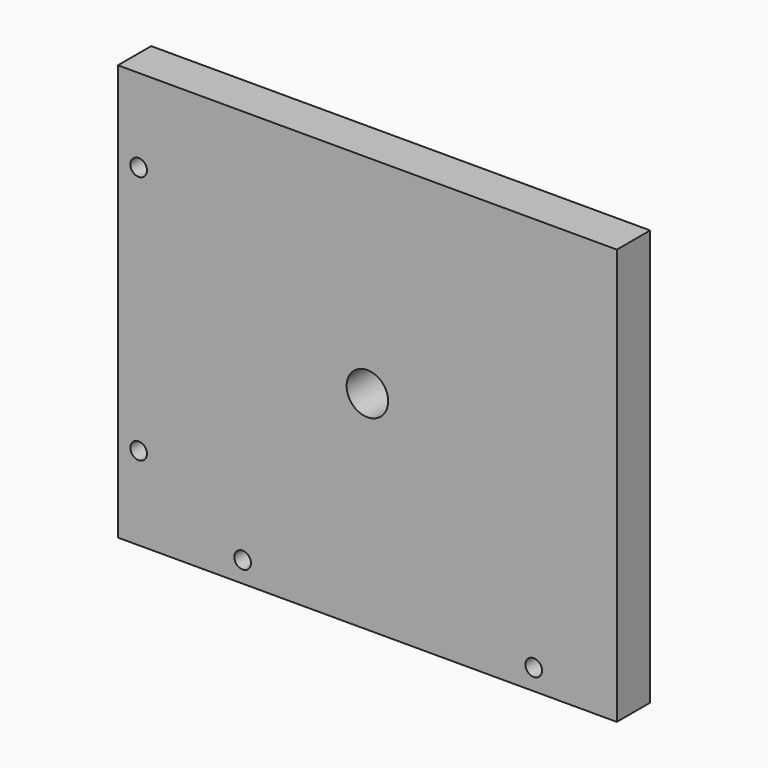
from build123d import *

# Parameters (mm, degrees)
F0_W     = 120
F0_H     = 100
F0_R     = 2
F0_R_2   = 5
F1_DEPTH = 10


with BuildPart() as f1:
    # F0 (on Front) → F1 (new body)
    with BuildSketch(Plane.XZ):
        Rectangle(F0_W, F0_H)
        with Locations((-55, -30)):
            Circle(F0_R, mode=Mode.SUBTRACT)
        with Locations((-30, -45)):
            Circle(F0_R, mode=Mode.SUBTRACT)
        with Locations((40, -45)):
            Circle(F0_R, mode=Mode.SUBTRACT)
        with Locations((-55, 30)):
            Circle(F0_R, mode=Mode.SUBTRACT)
        Circle(F0_R_2, mode=Mode.SUBTRACT)
    extrude(amount=F1_DEPTH)


solid = f1.part
